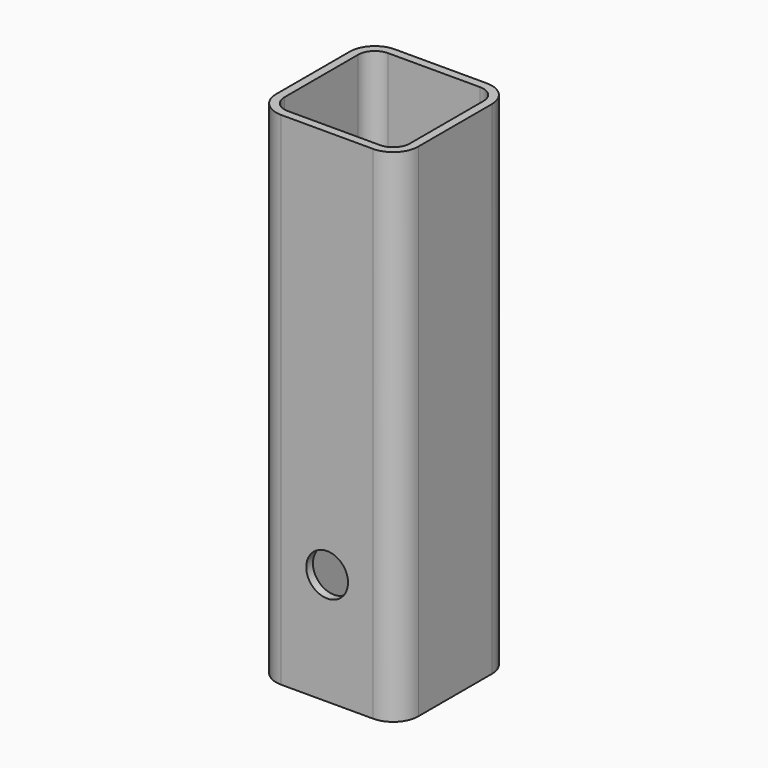
from build123d import *

# Parameters (mm, degrees)
F1_DEPTH = 76.2
F2_R     = 3.175
F3_DEPTH = 21.5910002539


with BuildPart() as f1:
    # F0 (on Top) → F1 (new body)
    with BuildSketch(Plane.XY):
        with BuildLine():
            Line((16.51, 20.320000127), (2.54, 20.320000127))
            ThreePointArc((2.54, 20.320000127), (-0.1540769261, 19.2040769261), (-1.270000127, 16.51))
            Line((-1.270000127, 16.51), (-1.270000127, 2.54))
            ThreePointArc((-1.270000127, 2.54), (-0.1540769261, -0.1540769261), (2.54, -1.270000127))
            Line((2.54, -1.270000127), (16.51, -1.270000127))
            ThreePointArc((16.51, -1.270000127), (19.2040769261, -0.1540769261), (20.320000127, 2.54))
            Line((20.320000127, 2.54), (20.320000127, 16.51))
            ThreePointArc((20.320000127, 16.51), (19.2040769261, 19.2040769261), (16.51, 20.320000127))
        make_face()
        with BuildLine():
            Line((16.51, 0), (2.54, 0))
            ThreePointArc((2.54, 0), (0.7439487758, 0.7439487758), (0, 2.54))
            Line((0, 2.54), (0, 16.51))
            ThreePointArc((0, 16.51), (0.7439487758, 18.3060512242), (2.54, 19.05))
            Line((2.54, 19.05), (16.51, 19.05))
            ThreePointArc((16.51, 19.05), (18.3060512242, 18.3060512242), (19.05, 16.51))
            Line((19.05, 16.51), (19.05, 2.54))
            ThreePointArc((19.05, 2.54), (18.3060512242, 0.7439487758), (16.51, 0))
        make_face(mode=Mode.SUBTRACT)
    extrude(amount=F1_DEPTH)

    # F2 (on face) → F3 (cut, through all)
    with BuildSketch(Plane.XZ.offset(1.270000127)):
        with Locations((9.525, 16.9721264392)):
            Circle(F2_R)
    extrude(amount=-F3_DEPTH, mode=Mode.SUBTRACT)


solid = f1.part
